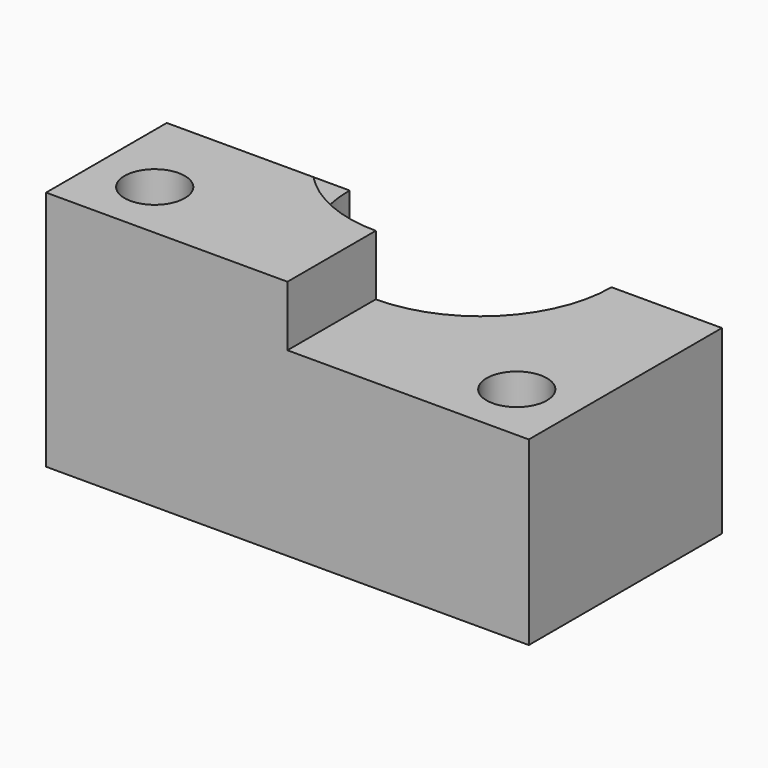
from build123d import *

# Parameters (mm, degrees)
F0_R     = 5
F1_DEPTH = 40
F2_R     = 5
F3_DEPTH = 10


with BuildPart() as f1:
    # F0 (on Top) → F1 (new body)
    with BuildSketch(Plane.XY):
        with BuildLine():
            Line((-84.020619, -2.304368), (-4.020619, -2.304368))
            Line((-4.020619, -2.304368), (-4.020619, 37.695632))
            Line((-4.020619, 37.695632), (-22.312074, 37.695632))
            ThreePointArc((-22.312074, 37.695632), (-44.020619, 15.987087), (-65.729164, 37.695632))
            Line((-65.729164, 37.695632), (-84.020619, 37.695632))
            Line((-84.020619, 37.695632), (-84.020619, -2.304368))
        make_face()
        with Locations((-74.020619, 7.695632)):
            Circle(F0_R, mode=Mode.SUBTRACT)
        with Locations((-14.020619, 7.695632)):
            Circle(F0_R, mode=Mode.SUBTRACT)
    extrude(amount=F1_DEPTH)

    # F2 (on face) → F3 (cut)
    with BuildSketch(Plane.XY.offset(40)):
        with BuildLine():
            Line((-84.020619, 22.695632), (-59.713322, 22.695632))
            ThreePointArc((-59.713322, 22.695632), (-64.169151, 29.61494), (-65.729164, 37.695632))
            Line((-65.729164, 37.695632), (-84.020619, 37.695632))
            Line((-84.020619, 37.695632), (-84.020619, 22.695632))
        make_face()
        with BuildLine():
            ThreePointArc((-22.312074, 37.695632), (-28.67036, 22.345372), (-44.020619, 15.987087))
            Line((-44.020619, 15.987087), (-44.020619, -2.304368))
            Line((-44.020619, -2.304368), (-4.020619, -2.304368))
            Line((-4.020619, -2.304368), (-4.020619, 37.695632))
            Line((-4.020619, 37.695632), (-22.312074, 37.695632))
        make_face()
        with Locations((-14.020619, 7.695632)):
            Circle(F2_R, mode=Mode.SUBTRACT)
    extrude(amount=-F3_DEPTH, mode=Mode.SUBTRACT)


solid = f1.part
